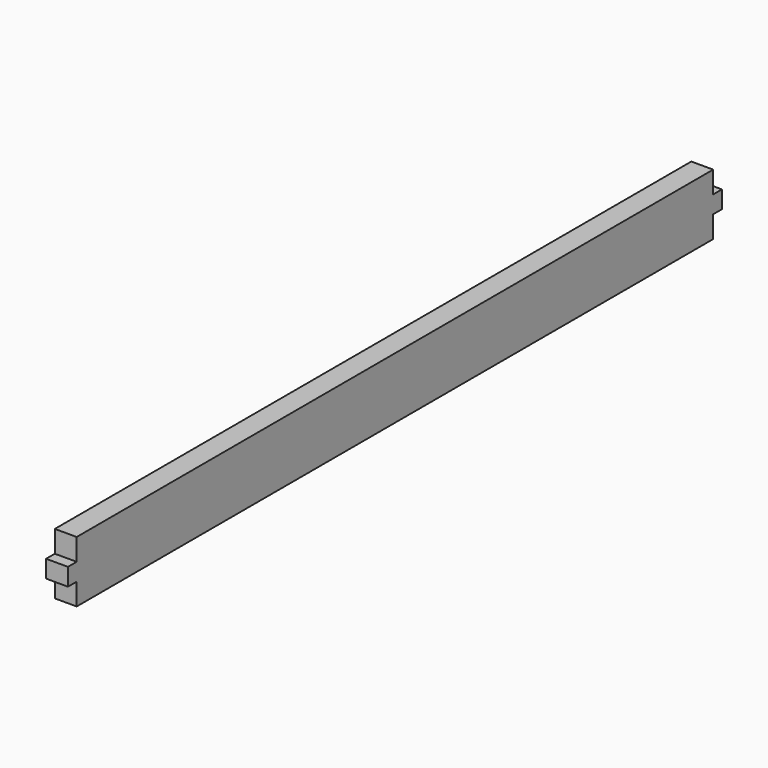
from build123d import *

# Parameters (mm, degrees)
F0_W     = 593.725
F0_H     = 44.45
F1_DEPTH = 15.875
F2_W     = 7.9375
F2_H     = 15.875
F3_DEPTH = 25.4


with BuildPart() as f1:
    # F0 (on Right) → F1 (new body)
    with BuildSketch(Plane.YZ):
        Rectangle(F0_W, F0_H)
    extrude(amount=F1_DEPTH)

    # F2 (on face) → F3 (cut)
    with BuildSketch(Plane.YZ.offset(15.875)):
        with Locations((-292.89375, 14.2875)):
            Rectangle(F2_W, F2_H)
        with Locations((-292.89375, -14.2875)):
            Rectangle(F2_W, F2_H)
        with Locations((292.89375, 14.2875)):
            Rectangle(F2_W, F2_H)
        with Locations((292.89375, -14.2875)):
            Rectangle(F2_W, F2_H)
    extrude(amount=-F3_DEPTH, mode=Mode.SUBTRACT)


solid = f1.part
